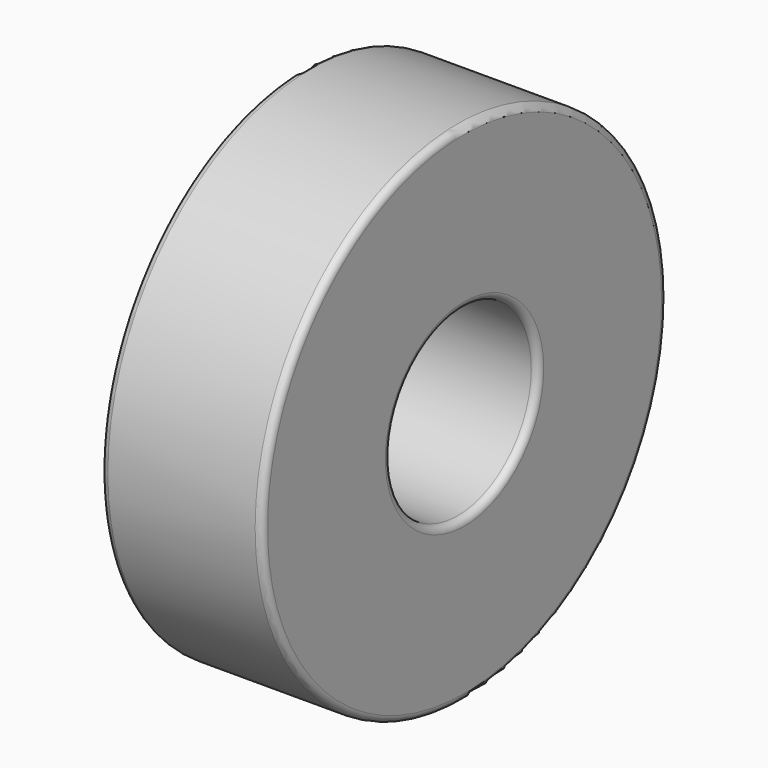
from build123d import *

# Parameters (mm, degrees)
F0_R     = 11
F0_R_2   = 4
F1_DEPTH = 7
F2_R     = 0.3


with BuildPart() as f1:
    # F0 (on Right) → F1 (new body)
    with BuildSketch(Plane.YZ):
        Circle(F0_R)
        Circle(F0_R_2, mode=Mode.SUBTRACT)
    extrude(amount=F1_DEPTH)

    # F2
    f2_edges = [f1.edges().sort_by_distance(p)[0] for p in [
        (3.5, 11, 0),
        (0, -11, 0),
        (7, -11, 0),
        (3.5, 4, 0),
        (0, -4, 0),
        (7, -4, 0),
    ]]
    fillet(f2_edges, radius=F2_R)


solid = f1.part
